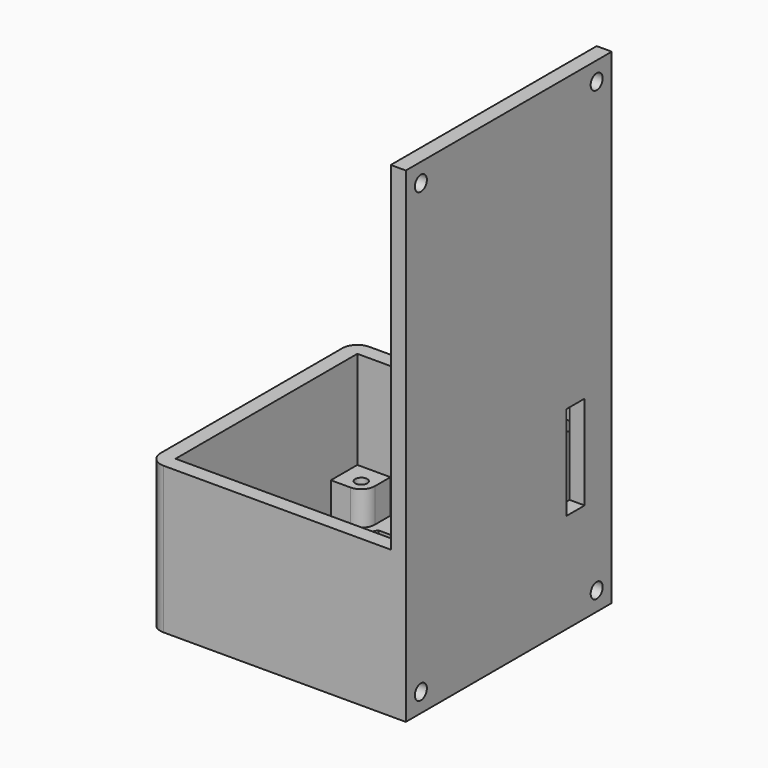
from build123d import *

# Parameters (mm, degrees)
SKETCH001_W     = 68.4
SKETCH001_H     = 68.4
PAD001_DEPTH    = 39
SKETCH002_W     = 60.4
SKETCH002_H     = 60.4
POCKET_DEPTH    = 26
POCKET005_DEPTH = 9
SKETCH003_R     = 1.6
POCKET006_DEPTH = 14
SKETCH009_R     = 3
POCKET007_DEPTH = 8
POCKET008_DEPTH = 4
POCKET009_DEPTH = 4
SKETCH006_W     = 4
SKETCH006_H     = 68.4
PAD002_DEPTH    = 90
SKETCH007_R     = 2
SKETCH007_W     = 6
SKETCH007_H     = 25
POCKET010_DEPTH = 5
FILLET_R        = 4


with BuildPart() as part:
    # Sketch001 → Pad001 (new body)
    with BuildSketch(Plane.XY):
        Rectangle(SKETCH001_W, SKETCH001_H)
    extrude(amount=PAD001_DEPTH)

    # Sketch002 (on Face6 of Pad001) → Pocket (cut)
    with BuildSketch(Plane.XY.offset(39)):
        Rectangle(SKETCH002_W, SKETCH002_H)
    extrude(amount=-POCKET_DEPTH, mode=Mode.SUBTRACT)

    # Sketch008 (on Face11 of Pocket) → Pocket005 (cut)
    with BuildSketch(Plane.XY.offset(13)):
        with BuildLine():
            Line((-21.4, 25), (-21.4, 30.2))
            Line((-21.4, 30.2), (21.4, 30.2))
            Line((21.4, 30.2), (21.4, 25))
            ThreePointArc((21.4, 25), (22.454416, 22.454416), (25, 21.4))
            Line((25, 21.4), (30.2, 21.4))
            Line((30.2, 21.4), (30.2, -21.4))
            Line((30.2, -21.4), (25, -21.4))
            ThreePointArc((25, -21.4), (22.454416, -22.454416), (21.4, -25))
            Line((21.4, -25), (21.4, -30.2))
            Line((21.4, -30.2), (-21.4, -30.2))
            Line((-21.4, -30.2), (-21.4, -25))
            ThreePointArc((-21.4, -25), (-22.454416, -22.454416), (-25, -21.4))
            Line((-25, -21.4), (-30.2, -21.4))
            Line((-30.2, -21.4), (-30.2, 21.4))
            Line((-30.2, 21.4), (-25, 21.4))
            ThreePointArc((-25, 21.4), (-22.454416, 22.454416), (-21.4, 25))
        make_face()
    extrude(amount=-POCKET005_DEPTH, mode=Mode.SUBTRACT)

    # Sketch003 (on Face4 of Pocket005) → Pocket006 (cut)
    with BuildSketch(Plane(origin=(0, 0, 0), x_dir=(1, 0, 0), z_dir=(0, 0, -1))):
        with Locations((-25, 25)):
            Circle(SKETCH003_R)
        with Locations((-25, -25)):
            Circle(SKETCH003_R)
        with Locations((25, -25)):
            Circle(SKETCH003_R)
        with Locations((25, 25)):
            Circle(SKETCH003_R)
    extrude(amount=-POCKET006_DEPTH, mode=Mode.SUBTRACT)

    # Sketch009 (on Face4 of Pocket006) → Pocket007 (cut)
    with BuildSketch(Plane(origin=(0, 0, 0), x_dir=(1, 0, 0), z_dir=(0, 0, -1))):
        with Locations((-25, 25)):
            Circle(SKETCH009_R)
        with Locations((-25, -25)):
            Circle(SKETCH009_R)
        with Locations((25, -25)):
            Circle(SKETCH009_R)
        with Locations((25, 25)):
            Circle(SKETCH009_R)
    extrude(amount=-POCKET007_DEPTH, mode=Mode.SUBTRACT)

    # Sketch004 (on Face4 of Pocket007) → Pocket008 (cut)
    with BuildSketch(Plane(origin=(0, 0, 0), x_dir=(1, 0, 0), z_dir=(0, 0, -1))):
        Polygon((2.25, 5.897114), (4.5, 9.794229), (2.25, 13.691343), (-2.25, 13.691343), (-4.5, 9.794229), (-2.25, 5.897114), align=None)
        Polygon((10.732051, 1), (12.982051, 4.897114), (10.732051, 8.794229), (6.232051, 8.794229), (3.982051, 4.897114), (6.232051, 1), align=None)
        Polygon((-6.232051, 1), (-3.982051, 4.897114), (-6.232051, 8.794229), (-10.732051, 8.794229), (-12.982051, 4.897114), (-10.732051, 1), align=None)
        Polygon((10.732051, 10.794229), (12.982051, 14.691343), (10.732051, 18.588457), (6.232051, 18.588457), (3.982051, 14.691343), (6.232051, 10.794229), align=None)
        Polygon((-6.232051, 10.794229), (-3.982051, 14.691343), (-6.232051, 18.588457), (-10.732051, 18.588457), (-12.982051, 14.691343), (-10.732051, 10.794229), align=None)
        Polygon((2.25, 15.691343), (4.5, 19.588457), (2.25, 23.485572), (-2.25, 23.485572), (-4.5, 19.588457), (-2.25, 15.691343), align=None)
        Polygon((-14.714102, 5.897114), (-12.464102, 9.794229), (-14.714102, 13.691343), (-19.214102, 13.691343), (-21.464102, 9.794229), (-19.214102, 5.897114), align=None)
        Polygon((-14.714102, -3.897114), (-12.464102, 0), (-14.714102, 3.897114), (-19.214102, 3.897114), (-21.464102, 0), (-19.214102, -3.897114), align=None)
        Polygon((19.214102, 5.897114), (21.464102, 9.794229), (19.214102, 13.691343), (14.714102, 13.691343), (12.464102, 9.794229), (14.714102, 5.897114), align=None)
        Polygon((19.214102, -3.897114), (21.464102, 0), (19.214102, 3.897114), (14.714102, 3.897114), (12.464102, 0), (14.714102, -3.897114), align=None)
        Polygon((-6.232051, 20.588457), (-3.982051, 24.485572), (-6.232051, 28.382686), (-10.732051, 28.382686), (-12.982051, 24.485572), (-10.732051, 20.588457), align=None)
        Polygon((10.732051, 20.588457), (12.982051, 24.485572), (10.732051, 28.382686), (6.232051, 28.382686), (3.982051, 24.485572), (6.232051, 20.588457), align=None)
        Polygon((19.214102, 15.691343), (21.464102, 19.588457), (19.214102, 23.485572), (14.714102, 23.485572), (12.464102, 19.588457), (14.714102, 15.691343), align=None)
        Polygon((-14.714102, 15.691343), (-12.464102, 19.588457), (-14.714102, 23.485572), (-19.214102, 23.485572), (-21.464102, 19.588457), (-19.214102, 15.691343), align=None)
        Polygon((-23.196152, 10.794229), (-20.946152, 14.691343), (-23.196152, 18.588457), (-27.696152, 18.588457), (-29.946152, 14.691343), (-27.696152, 10.794229), align=None)
        Polygon((-23.196152, 1), (-20.946152, 4.897114), (-23.196152, 8.794229), (-27.696152, 8.794229), (-29.946152, 4.897114), (-27.696152, 1), align=None)
        Polygon((27.696152, 10.794229), (29.946152, 14.691343), (27.696152, 18.588457), (23.196152, 18.588457), (20.946152, 14.691343), (23.196152, 10.794229), align=None)
        Polygon((27.696152, 1), (29.946152, 4.897114), (27.696152, 8.794229), (23.196152, 8.794229), (20.946152, 4.897114), (23.196152, 1), align=None)
        Polygon((2.25, 25.485572), (4.5, 29.382686), (-4.5, 29.382686), (-2.25, 25.485572), align=None)
        Polygon((2.25, -3.897114), (4.5, 0), (2.25, 3.897114), (-2.25, 3.897114), (-4.5, 0), (-2.25, -3.897114), align=None)
    extrude(amount=-POCKET008_DEPTH, mode=Mode.SUBTRACT)

    # Sketch005 (on Face4 of Pocket008) → Pocket009 (cut)
    with BuildSketch(Plane(origin=(0, 0, 0), x_dir=(-1, 0, 0), z_dir=(0, 0, -1))):
        Polygon((2.25, 5.897114), (4.5, 9.794229), (2.25, 13.691343), (-2.25, 13.691343), (-4.5, 9.794229), (-2.25, 5.897114), align=None)
        Polygon((10.732051, 1), (12.982051, 4.897114), (10.732051, 8.794229), (6.232051, 8.794229), (3.982051, 4.897114), (6.232051, 1), align=None)
        Polygon((-6.232051, 1), (-3.982051, 4.897114), (-6.232051, 8.794229), (-10.732051, 8.794229), (-12.982051, 4.897114), (-10.732051, 1), align=None)
        Polygon((10.732051, 10.794229), (12.982051, 14.691343), (10.732051, 18.588457), (6.232051, 18.588457), (3.982051, 14.691343), (6.232051, 10.794229), align=None)
        Polygon((-6.232051, 10.794229), (-3.982051, 14.691343), (-6.232051, 18.588457), (-10.732051, 18.588457), (-12.982051, 14.691343), (-10.732051, 10.794229), align=None)
        Polygon((2.25, 15.691343), (4.5, 19.588457), (2.25, 23.485572), (-2.25, 23.485572), (-4.5, 19.588457), (-2.25, 15.691343), align=None)
        Polygon((-14.714102, 5.897114), (-12.464102, 9.794229), (-14.714102, 13.691343), (-19.214102, 13.691343), (-21.464102, 9.794229), (-19.214102, 5.897114), align=None)
        Polygon((19.214102, 5.897114), (21.464102, 9.794229), (19.214102, 13.691343), (14.714102, 13.691343), (12.464102, 9.794229), (14.714102, 5.897114), align=None)
        Polygon((-6.232051, 20.588457), (-3.982051, 24.485572), (-6.232051, 28.382686), (-10.732051, 28.382686), (-12.982051, 24.485572), (-10.732051, 20.588457), align=None)
        Polygon((10.732051, 20.588457), (12.982051, 24.485572), (10.732051, 28.382686), (6.232051, 28.382686), (3.982051, 24.485572), (6.232051, 20.588457), align=None)
        Polygon((19.214102, 15.691343), (21.464102, 19.588457), (19.214102, 23.485572), (14.714102, 23.485572), (12.464102, 19.588457), (14.714102, 15.691343), align=None)
        Polygon((-14.714102, 15.691343), (-12.464102, 19.588457), (-14.714102, 23.485572), (-19.214102, 23.485572), (-21.464102, 19.588457), (-19.214102, 15.691343), align=None)
        Polygon((-23.196152, 10.794229), (-20.946152, 14.691343), (-23.196152, 18.588457), (-27.696152, 18.588457), (-29.946152, 14.691343), (-27.696152, 10.794229), align=None)
        Polygon((-23.196152, 1), (-20.946152, 4.897114), (-23.196152, 8.794229), (-27.696152, 8.794229), (-29.946152, 4.897114), (-27.696152, 1), align=None)
        Polygon((27.696152, 10.794229), (29.946152, 14.691343), (27.696152, 18.588457), (23.196152, 18.588457), (20.946152, 14.691343), (23.196152, 10.794229), align=None)
        Polygon((27.696152, 1), (29.946152, 4.897114), (27.696152, 8.794229), (23.196152, 8.794229), (20.946152, 4.897114), (23.196152, 1), align=None)
        Polygon((2.25, 25.485572), (4.5, 29.382686), (-4.5, 29.382686), (-2.25, 25.485572), align=None)
    extrude(amount=-POCKET009_DEPTH, mode=Mode.SUBTRACT)

    # Sketch006 (on Face5 of Pocket) → Pad002 (join)
    with BuildSketch(Plane.XY.offset(39)):
        with Locations((32.2, 0)):
            Rectangle(SKETCH006_W, SKETCH006_H)
    extrude(amount=PAD002_DEPTH)

    # Sketch007 (on Face235 of Pad002) → Pocket010 (cut)
    with BuildSketch(Plane.YZ.offset(34.2)):
        with Locations((-29.2, 5)):
            Circle(SKETCH007_R)
        with Locations((-29.2, 124)):
            Circle(SKETCH007_R)
        with Locations((29.2, 124)):
            Circle(SKETCH007_R)
        with Locations((29.2, 5)):
            Circle(SKETCH007_R)
        with Locations((22.2, 39)):
            Rectangle(SKETCH007_W, SKETCH007_H)
    extrude(amount=-POCKET010_DEPTH, mode=Mode.SUBTRACT)

    # Fillet
    fillet_edges = [part.edges().sort_by_distance(p)[0] for p in [
        (-34.2, 34.2, 19.5),
        (-34.2, -34.2, 19.5),
    ]]
    fillet(fillet_edges, radius=FILLET_R)


solid = part.part
